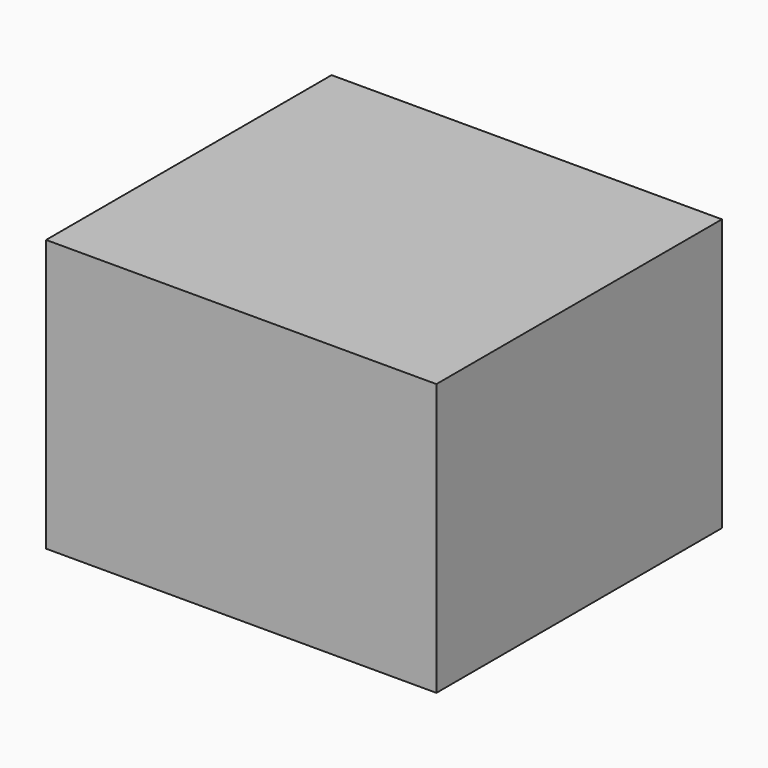
from build123d import *

# Parameters (mm, degrees)
SKETCH_W  = 14
SKETCH_H  = 9.75
PAD_DEPTH = 6.4


with BuildPart() as part:
    # Sketch → Pad (new body, symmetric)
    with BuildSketch(Plane.XZ):
        with Locations((0, 4.875)):
            Rectangle(SKETCH_W, SKETCH_H)
    extrude(amount=PAD_DEPTH, both=True)


solid = part.part
